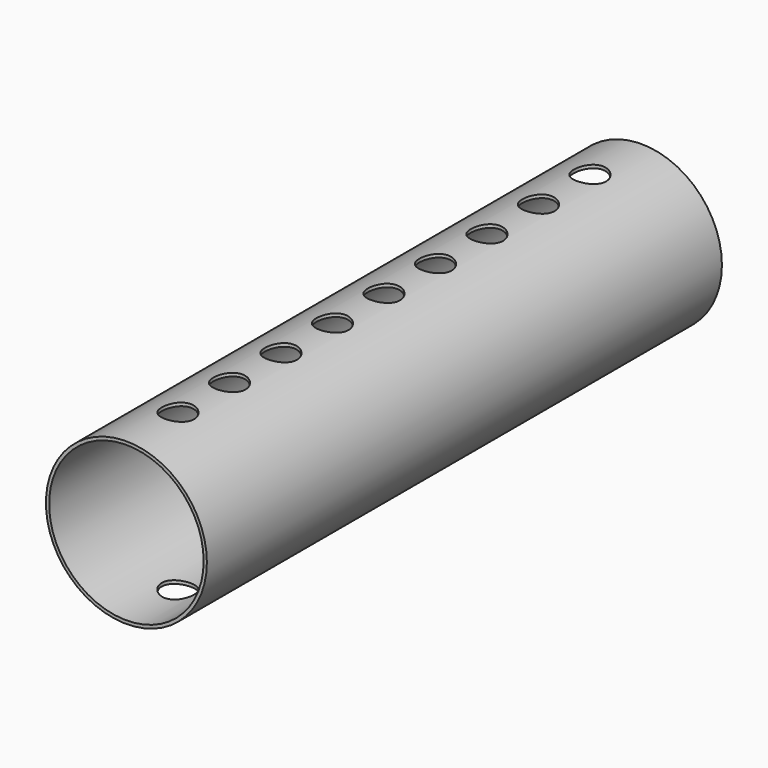
from build123d import *

# Parameters (mm, degrees)
F0_R     = 12.5
F0_R_2   = 12
F1_DEPTH = 100
F2_R     = 2.5
F2_R_2   = 2.121319
F3_DEPTH = 12.5


with BuildPart() as f1:
    # F0 (on Front) → F1 (new body)
    with BuildSketch(Plane.XZ):
        Circle(F0_R)
        Circle(F0_R_2, mode=Mode.SUBTRACT)
    extrude(amount=F1_DEPTH)

    # F2 (on Top) → F3 (cut, symmetric)
    with BuildSketch(Plane.XY):
        with Locations((0, -10)):
            Circle(F2_R)
        with Locations((0, -20)):
            Circle(F2_R)
        with Locations((0, -30)):
            Circle(F2_R)
        with Locations((0, -40)):
            Circle(F2_R)
        with Locations((0, -50)):
            Circle(F2_R)
        with Locations((0, -60)):
            Circle(F2_R)
        with Locations((0, -70)):
            Circle(F2_R)
        with Locations((0, -90)):
            Circle(F2_R)
        with Locations((0, -80)):
            Circle(F2_R)
        with Locations((0, -107.059504)):
            Circle(F2_R_2)
    extrude(amount=F3_DEPTH, both=True, mode=Mode.SUBTRACT)


solid = f1.part
